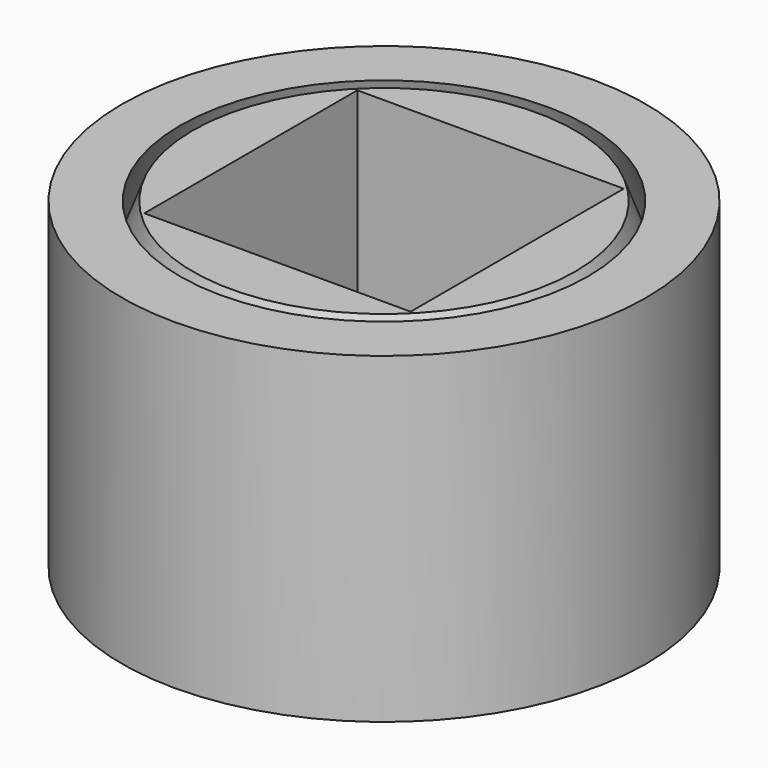
from build123d import *

# Parameters (mm, degrees)
F0_W     = 13.208
F0_H     = 19.05
F2_W     = 15.748
F2_H     = 15.748
F3_DEPTH = 19.051
F4_SIZE2 = 1.905
F4_SIZE  = 5.08


with BuildPart() as f1:
    # F0 (on Front) → F1 (revolve)
    with BuildSketch(Plane.XZ):
        with Locations((6.604, 9.525)):
            Rectangle(F0_W, F0_H)
    revolve(axis=Axis((0, 0, -10.8857148167), (0, 0, -1)))

    # F2 (on face) → F3 (cut, through all)
    with BuildSketch(Plane.XY.offset(19.05)):
        Rectangle(F2_W, F2_H)
        Rectangle(F2_W, F2_H)
        Rectangle(F2_W, F2_H)
        Rectangle(F2_W, F2_H)
    extrude(amount=-F3_DEPTH, mode=Mode.SUBTRACT)

    # F4
    f4_edges = [f1.edges().sort_by_distance(p)[0] for p in [
        (-13.208, 0, 19.05),
        (-13.208, 0, 0),
    ]]
    f4_side = f1.faces().sort_by_distance((-13.208, 0, 9.525))[0]
    chamfer(f4_edges, length=F4_SIZE, length2=F4_SIZE2, reference=f4_side)


with BuildPart() as f6:
    # F5 (on Front) → F6 (revolve)
    with BuildSketch(Plane.XZ):
        Polygon((15.494, 19.05), (12.065, 19.05), (13.97, 13.97), (13.97, 5.08), (12.065, 0), (13.208, 0), (15.494, 0), align=None)
    revolve(axis=Axis((0, 0, -10.8857148167), (0, 0, -1)))


solid = Compound([f1.part, f6.part])
